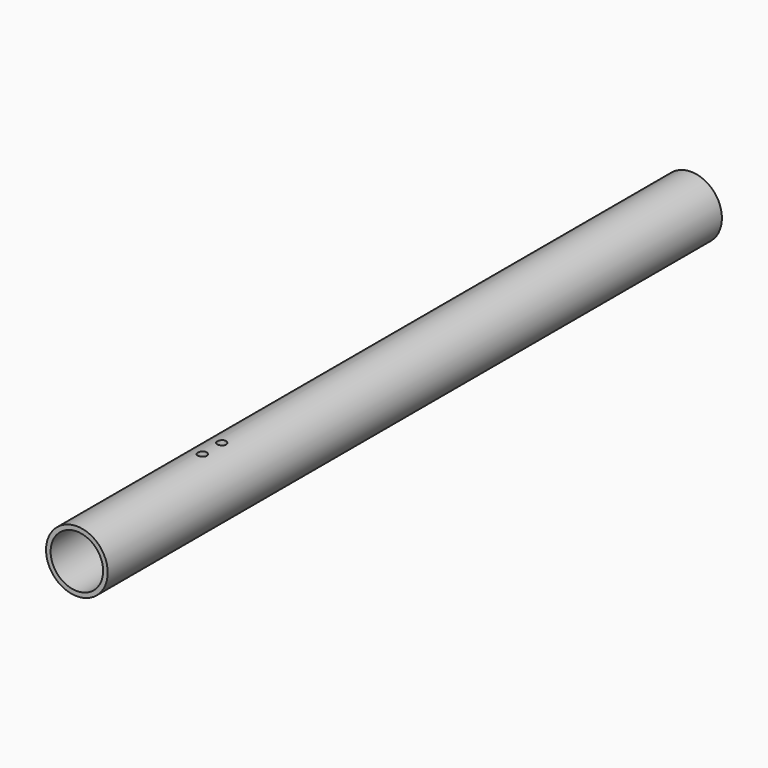
from build123d import *

# Parameters (mm, degrees)
F0_R      = 19
F1_DEPTH  = 473
F2_R      = 16
F3_DEPTH  = 473.001
F4_R      = 16.175
F5_DEPTH  = 35
F6_R      = 16.175
F7_DEPTH  = 35
F10_D     = 5.5
F10_DEPTH = 20
F10_TIP   = 1.6523667023
F13_D     = 5
F13_DEPTH = 15
F13_TIP   = 1.5021515476


with BuildPart() as f1:
    # F0 (on Front) → F1 (new body)
    with BuildSketch(Plane.XZ):
        Circle(F0_R)
    extrude(amount=-F1_DEPTH)

    # F2 (on face) → F3 (cut, through all)
    with BuildSketch(Plane.XZ):
        Circle(F2_R)
    extrude(amount=-F3_DEPTH, mode=Mode.SUBTRACT)

    # F4 (on face) → F5 (cut)
    with BuildSketch(Plane.XZ):
        Circle(F4_R)
    extrude(amount=-F5_DEPTH, mode=Mode.SUBTRACT)

    # F6 (on face) → F7 (cut)
    with BuildSketch(Plane(origin=(0, 473, 0), x_dir=(-1, 0, 0), z_dir=(0, 1, 0))):
        Circle(F6_R)
    extrude(amount=-F7_DEPTH, mode=Mode.SUBTRACT)

    # F10
    with Locations(Plane.XY.offset(25)):
        with Locations((0, 96.5), (0, 111.5)):
            Hole(F10_D / 2, depth=F10_DEPTH)
            with Locations((0, 0, -(F10_DEPTH + F10_TIP / 2))):  # 118° drill point
                Cone(0, F10_D / 2, F10_TIP, mode=Mode.SUBTRACT)

    # F13
    with Locations(Plane(origin=(-25, 0, 0), x_dir=(0, 1, 0), z_dir=(-1, 0, 0))):
        with Locations((50, 0), (423, 0)):
            Hole(F13_D / 2, depth=F13_DEPTH)
            with Locations((0, 0, -(F13_DEPTH + F13_TIP / 2))):  # 118° drill point
                Cone(0, F13_D / 2, F13_TIP, mode=Mode.SUBTRACT)


solid = f1.part
